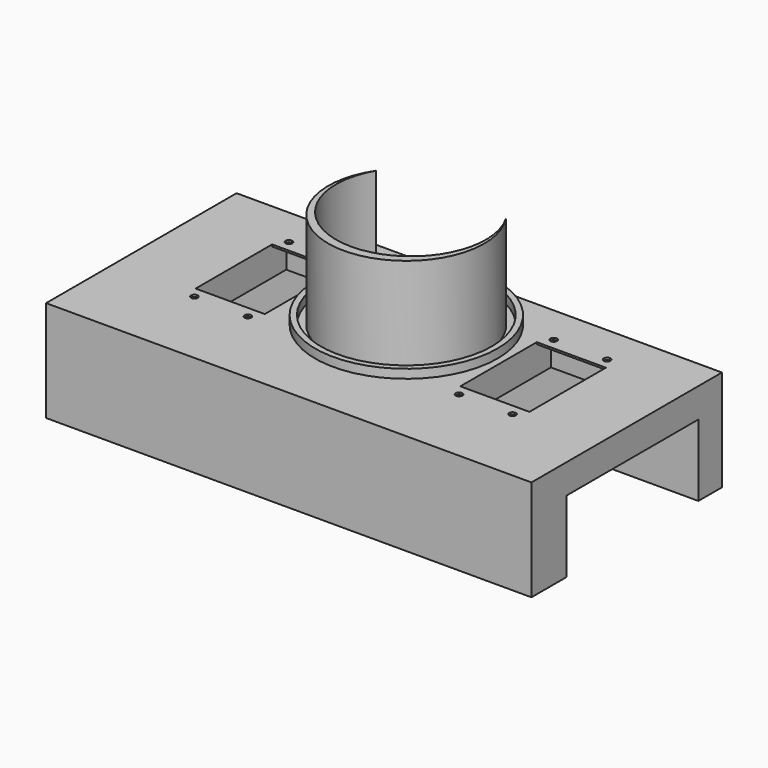
from build123d import *

# Parameters (mm, degrees)
PAD002_DEPTH  = 33
SKETCH003_W   = 165.06
SKETCH003_H   = 80.96
SKETCH003_W_2 = 23.5
SKETCH003_H_2 = 44.52
PAD003_DEPTH  = 10
SKETCH004_R   = 31
SKETCH004_R_2 = 29.055
PAD004_DEPTH  = 3
SKETCH033_W   = 165.06
SKETCH033_H   = 10
SKETCH033_H_2 = 15
PAD029_DEPTH  = 24.4
SKETCH034_W   = 23.5
SKETCH034_H   = 6
SKETCH034_R   = 1.15
PAD030_DEPTH  = 0.65


with BuildPart() as part:
    # Sketch002 → Pad002 (new body)
    with BuildSketch(Plane.XY):
        with BuildLine():
            ThreePointArc((-22.083648, 12.75), (0, -25.5), (22.083648, 12.75))
            ThreePointArc((-22.083648, 12.75), (0, -28.556543), (22.083648, 12.75))
        make_face()
    extrude(amount=PAD002_DEPTH)

    # Sketch003 → Pad003 (join)
    with BuildSketch(Plane.XY):
        with Locations((0, -11.48)):
            Rectangle(SKETCH003_W, SKETCH003_H)
        with BuildLine():
            ThreePointArc((-6.689544, 7.7), (-10.2, 0), (-6.689544, -7.7))
            Line((-6.689544, -7.7), (6.689544, -7.7))
            ThreePointArc((6.689544, -7.7), (10.2, 0), (6.689544, 7.7))
            Line((-6.689544, 7.7), (6.689544, 7.7))
        make_face(mode=Mode.SUBTRACT)
        with Locations((45, -4.35)):
            Rectangle(SKETCH003_W_2, SKETCH003_H_2, mode=Mode.SUBTRACT)
        with Locations((-45, -4.35)):
            Rectangle(SKETCH003_W_2, SKETCH003_H_2, mode=Mode.SUBTRACT)
    extrude(amount=-PAD003_DEPTH)

    # Sketch004 (on Face3 of Pad003) → Pad004 (join)
    with BuildSketch(Plane.XY):
        with Locations((0, -2)):
            Circle(SKETCH004_R)
        with Locations((0, -2)):
            Circle(SKETCH004_R_2, mode=Mode.SUBTRACT)
    extrude(amount=PAD004_DEPTH)

    # Sketch033 (on Face11 of Pad004) → Pad029 (join)
    with BuildSketch(Plane(origin=(0, 0, -10), x_dir=(1, 0, 0), z_dir=(0, 0, -1))):
        with Locations((0, -24)):
            Rectangle(SKETCH033_W, SKETCH033_H)
        with Locations((0, 44.46)):
            Rectangle(SKETCH033_W, SKETCH033_H_2)
    extrude(amount=PAD029_DEPTH)

    # Sketch034 (on Face25 of Pad029) → Pad030 (join)
    with BuildSketch(Plane.XY):
        with Locations((45, 14.91)):
            Rectangle(SKETCH034_W, SKETCH034_H)
        with Locations((35.9, 15.75)):
            Circle(SKETCH034_R, mode=Mode.SUBTRACT)
        with Locations((54.1, 15.75)):
            Circle(SKETCH034_R, mode=Mode.SUBTRACT)
        with Locations((45, -23.61)):
            Rectangle(SKETCH034_W, SKETCH034_H)
        with Locations((35.9, -24.45)):
            Circle(SKETCH034_R, mode=Mode.SUBTRACT)
        with Locations((54.1, -24.45)):
            Circle(SKETCH034_R, mode=Mode.SUBTRACT)
        with Locations((-45, 14.91)):
            Rectangle(SKETCH034_W, SKETCH034_H)
        with Locations((-35.9, 15.75)):
            Circle(SKETCH034_R, mode=Mode.SUBTRACT)
        with Locations((-54.1, 15.75)):
            Circle(SKETCH034_R, mode=Mode.SUBTRACT)
        with Locations((-45, -23.61)):
            Rectangle(SKETCH034_W, SKETCH034_H)
        with Locations((-35.9, -24.45)):
            Circle(SKETCH034_R, mode=Mode.SUBTRACT)
        with Locations((-54.1, -24.45)):
            Circle(SKETCH034_R, mode=Mode.SUBTRACT)
    extrude(amount=-PAD030_DEPTH)


solid = part.part
